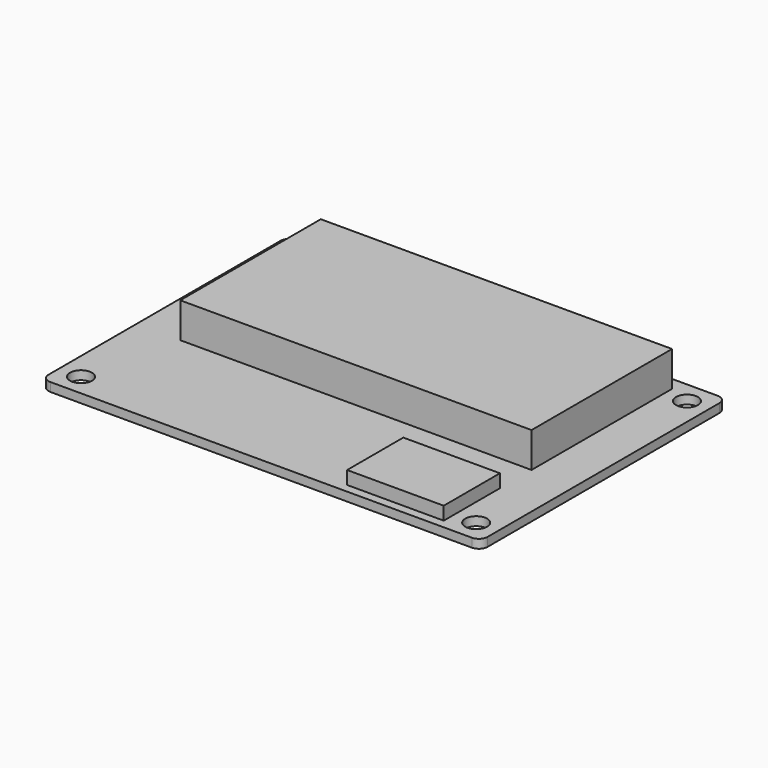
from build123d import *

# Parameters (mm, degrees)
F0_W     = 101.6
F0_H     = 50.8
F1_DEPTH = 12.7
F0_W_2   = 27.94
F0_H_2   = 20.32
F2_DEPTH = 6.35
F0_R     = 3.175
F3_DEPTH = 2.54


with BuildPart() as f1:
    # F0 (on Top) → F1 (new body)
    with BuildSketch(Plane.XY):
        with Locations((0, -29.21)):
            Rectangle(F0_W, F0_H)
    extrude(amount=F1_DEPTH)


with BuildPart() as f2:
    # F0 (on Top) → F2 (new body)
    with BuildSketch(Plane.XY):
        with Locations((36.83, -76.2)):
            Rectangle(F0_W_2, F0_H_2)
    extrude(amount=F2_DEPTH)


with BuildPart() as f3:
    # F0 (on Top) → F3 (new body)
    with BuildSketch(Plane.XY):
        with BuildLine():
            Line((60.96, 0), (-60.96, 0))
            ThreePointArc((-60.96, 0), (-62.756051, -0.743949), (-63.5, -2.54))
            Line((-63.5, -2.54), (-63.5, -86.36))
            ThreePointArc((-63.5, -86.36), (-62.756051, -88.156051), (-60.96, -88.9))
            Line((-60.96, -88.9), (60.96, -88.9))
            ThreePointArc((60.96, -88.9), (62.756051, -88.156051), (63.5, -86.36))
            Line((63.5, -86.36), (63.5, -2.54))
            ThreePointArc((63.5, -2.54), (62.756051, -0.743949), (60.96, 0))
        make_face()
        with Locations((-57.15, -82.55)):
            Circle(F0_R, mode=Mode.SUBTRACT)
        with Locations((57.15, -82.55)):
            Circle(F0_R, mode=Mode.SUBTRACT)
        with Locations((36.83, -76.2)):
            Rectangle(F0_W_2, F0_H_2, mode=Mode.SUBTRACT)
        with Locations((-57.15, -6.35)):
            Circle(F0_R, mode=Mode.SUBTRACT)
        with Locations((0, -29.21)):
            Rectangle(F0_W, F0_H, mode=Mode.SUBTRACT)
        with Locations((57.15, -6.35)):
            Circle(F0_R, mode=Mode.SUBTRACT)
    extrude(amount=F3_DEPTH)


solid = Compound([f1.part, f2.part, f3.part])
